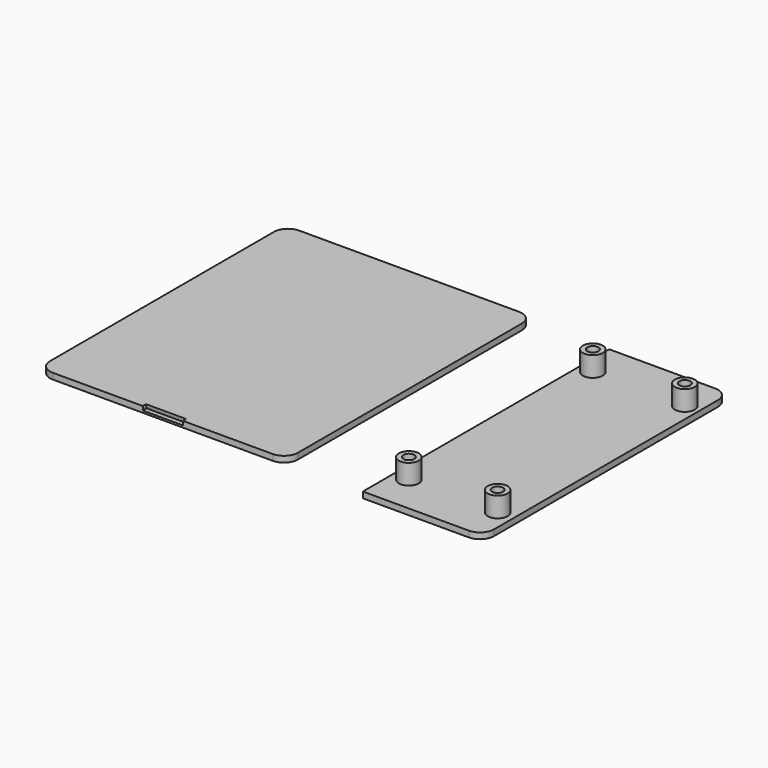
from build123d import *

# Parameters (mm, degrees)
F0_W     = 62
F0_H     = 77
F0_W_2   = 30
F1_DEPTH = 1.5
F2_R     = 3.5
F3_R     = 2.5
F3_R_2   = 1.375
F4_DEPTH = 5
F5_W     = 10
F5_H     = 1
F6_DEPTH = 1
F7_W     = 10
F7_H     = 0.5
F8_DEPTH = 0.2


with BuildPart() as f1:
    # F0 (on Top) → F1 (new body)
    with BuildSketch(Plane.XY):
        with Locations((-41.460528, -0.736844)):
            Rectangle(F0_W, F0_H)
        with Locations((24.671054, -2.11842)):
            Rectangle(F0_W_2, F0_H)
    extrude(amount=F1_DEPTH)

    # F2
    f2_edges = [f1.edges().sort_by_distance(p)[0] for p in [
        (-10.460528, -39.236844, 0.75),
        (-72.460528, -39.236844, 0.75),
        (-72.460528, 37.763156, 0.75),
        (-10.460528, 37.763156, 0.75),
        (39.671054, 36.38158, 0.75),
        (39.671054, -40.61842, 0.75),
    ]]
    fillet(f2_edges, radius=F2_R)

    # F3 (on face) → F4 (join)
    with BuildSketch(Plane.XY.offset(1.5)):
        with Locations((13.569002, -31.11842)):
            Circle(F3_R)
        with Locations((13.569002, -31.11842)):
            Circle(F3_R_2, mode=Mode.SUBTRACT)
        with Locations((35.773106, -31.11842)):
            Circle(F3_R)
        with Locations((35.773106, -31.11842)):
            Circle(F3_R_2, mode=Mode.SUBTRACT)
        with Locations((36.171054, 26.88158)):
            Circle(F3_R)
        with Locations((36.171054, 26.88158)):
            Circle(F3_R_2, mode=Mode.SUBTRACT)
        with Locations((13.171054, 26.88158)):
            Circle(F3_R)
        with Locations((13.171054, 26.88158)):
            Circle(F3_R_2, mode=Mode.SUBTRACT)
    extrude(amount=F4_DEPTH)

    # F5 (on face) → F6 (cut)
    with BuildSketch(Plane.XY.offset(1.5)):
        with Locations((-41.460528, -38.736844)):
            Rectangle(F5_W, F5_H)
    extrude(amount=-F6_DEPTH, mode=Mode.SUBTRACT)

    # F7 (on face) → F8 (cut)
    with BuildSketch(Plane.XZ.offset(38.236844)):
        with Locations((-41.460528, 0.75)):
            Rectangle(F7_W, F7_H)
    extrude(amount=-F8_DEPTH, mode=Mode.SUBTRACT)


solid = f1.part
